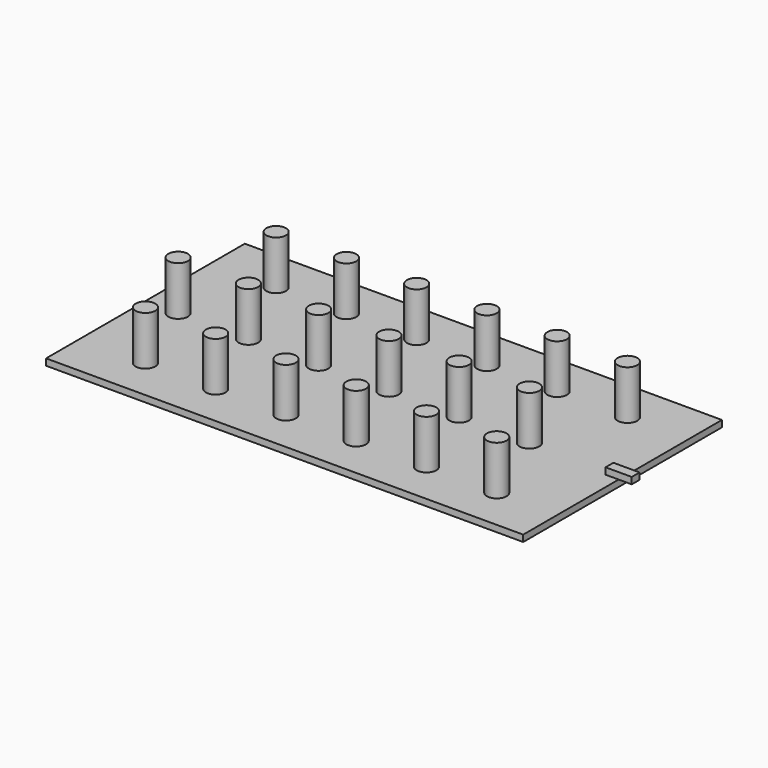
from build123d import *

# Parameters (mm, degrees)
F0_W     = 146
F0_H     = 76
F1_DEPTH = 2
F2_R     = 3
F3_DEPTH = 15
F4_DEPTH = 15
F2_W     = 4
F2_H     = 3
F5_DEPTH = 2


with BuildPart() as f1:
    # F0 (on Top) → F1 (new body)
    with BuildSketch(Plane.XY):
        Rectangle(F0_W, F0_H)
    extrude(amount=F1_DEPTH)

    # F2 (on face) → F5 (join)
    with BuildSketch(Plane.XY.offset(2)):
        with Locations((75, 0)):
            Rectangle(F2_W, F2_H)
        with Locations((71, 0)):
            Rectangle(F2_W, F2_H)
    extrude(amount=F5_DEPTH)


with BuildPart() as f3:
    # F2 (on face) → F3 (new body)
    with BuildSketch(Plane.XY.offset(2)):
        with Locations((-53, 25)):
            Circle(F2_R)
        with Locations((-31.5, 25)):
            Circle(F2_R)
        with Locations((-10, 25)):
            Circle(F2_R)
        with Locations((11.5, 25)):
            Circle(F2_R)
        with Locations((33, 25)):
            Circle(F2_R)
        with Locations((54.5, 25)):
            Circle(F2_R)
        with Locations((54.5, -25)):
            Circle(F2_R)
        with Locations((33, -25)):
            Circle(F2_R)
        with Locations((11.5, -25)):
            Circle(F2_R)
        with Locations((-10, -25)):
            Circle(F2_R)
        with Locations((-31.5, -25)):
            Circle(F2_R)
        with Locations((-53, -25)):
            Circle(F2_R)
    extrude(amount=F3_DEPTH)


with BuildPart() as f4:
    # F2 (on face) → F4 (new body)
    with BuildSketch(Plane.XY.offset(2)):
        with Locations((-63, 0)):
            Circle(F2_R)
        with Locations((-41.5, 0)):
            Circle(F2_R)
        with Locations((-20, 0)):
            Circle(F2_R)
        with Locations((1.5, 0)):
            Circle(F2_R)
        with Locations((23, 0)):
            Circle(F2_R)
        with Locations((44.5, 0)):
            Circle(F2_R)
    extrude(amount=F4_DEPTH)


solid = Compound([f1.part, f3.part, f4.part])
